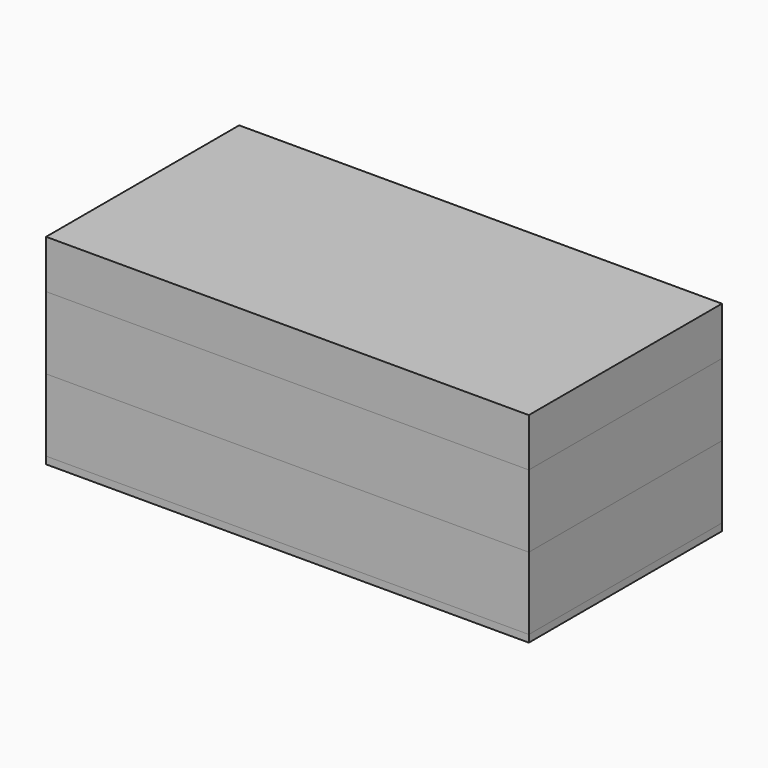
from build123d import *

# Parameters (mm, degrees)
F0_W      = 15
F0_H      = 15
F1_DEPTH  = 0.5
F2_W      = 100
F2_H      = 50
F3_DEPTH  = 1.5
F4_W      = 100
F4_H      = 50
F5_DEPTH  = 15
F6_W      = 100
F6_H      = 50
F7_DEPTH  = 15
F8_W      = 100
F8_H      = 50
F9_DEPTH  = 10
F10_R     = 20
F11_DEPTH = 1


with BuildPart() as f1:
    # F0 (on Top) → F1 (new body)
    with BuildSketch(Plane.XY):
        Rectangle(F0_W, F0_H)
    extrude(amount=F1_DEPTH)


with BuildPart() as f3:
    # F2 (on Top) → F3 (new body)
    with BuildSketch(Plane.XY):
        Rectangle(F2_W, F2_H)
    extrude(amount=F3_DEPTH)


with BuildPart() as f5:
    # F4 (on face) → F5 (new body)
    with BuildSketch(Plane.XY.offset(1.5)):
        Rectangle(F4_W, F4_H)
    extrude(amount=F5_DEPTH)


with BuildPart() as f7:
    # F6 (on face) → F7 (new body)
    with BuildSketch(Plane.XY.offset(16.5)):
        Rectangle(F6_W, F6_H)
    extrude(amount=F7_DEPTH)


with BuildPart() as f9:
    # F8 (on face) → F9 (new body)
    with BuildSketch(Plane.XY.offset(31.5)):
        Rectangle(F8_W, F8_H)
    extrude(amount=F9_DEPTH)


with BuildPart() as f11:
    # F10 (on face) → F11 (new body)
    with BuildSketch(Plane(origin=(0, 0, 0), x_dir=(1, 0, 0), z_dir=(0, 0, -1))):
        Circle(F10_R)
    extrude(amount=F11_DEPTH)


solid = Compound([f1.part, f3.part, f5.part, f7.part, f9.part, f11.part])
